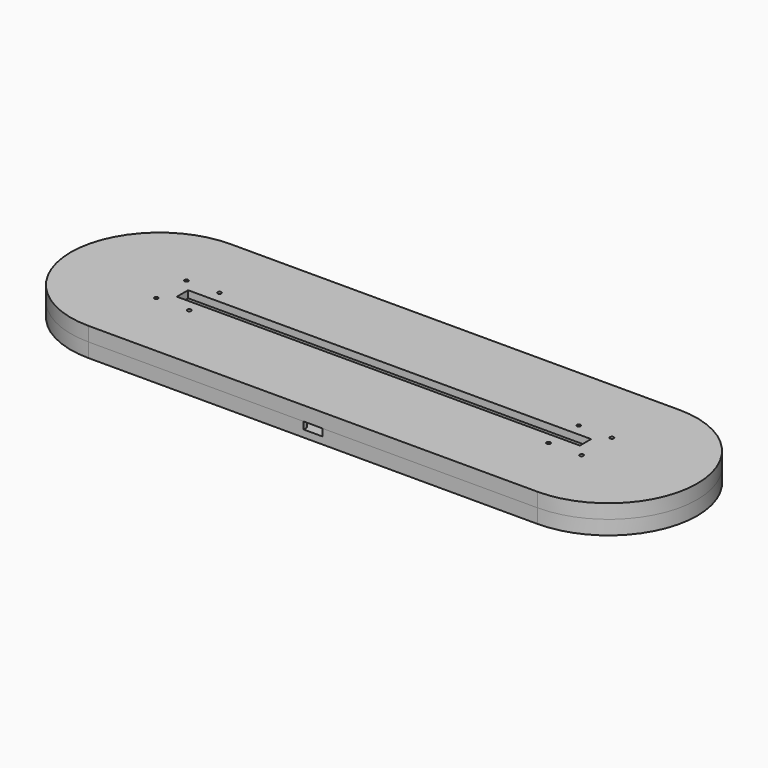
from build123d import *

# Parameters (mm, degrees)
BOX_BOTTOM_HALF_0_W     = 266.988319
BOX_BOTTOM_HALF_0_H     = 77
BOX_BOTTOM_HALF_0_DEPTH = 7
PAD_DEPTH               = 6
POCKET_DEPTH            = 3
SKETCH002_W             = 18.4
SKETCH002_H             = 20.85
POCKET001_DEPTH         = 3
SKETCH003_W             = 8
SKETCH003_H             = 1.65
POCKET002_DEPTH         = 3
PAD001_DEPTH            = 3
SKETCH005_W             = 170.5
SKETCH005_H             = 5.95
PAD002_DEPTH            = 3
SKETCH007_R             = 0.8
POCKET003_DEPTH         = 563.341185
SKETCH008_W             = 4
SKETCH008_H             = 5.84
POCKET004_DEPTH         = 3


with BuildPart() as box_bottom_half_0_body:
    # box_bottom_half_0 → box_bottom_half_0 (new body)
    with BuildSketch(Plane(origin=(-133.49416, -38.5, -1), x_dir=(1, 0, 0), z_dir=(0, 0, 1))):
        with Locations((133.494159, 38.5)):
            Rectangle(BOX_BOTTOM_HALF_0_W, BOX_BOTTOM_HALF_0_H)
    extrude(amount=BOX_BOTTOM_HALF_0_DEPTH)


with BuildPart() as body:
    # Sketch → Pad (new body)
    with BuildSketch(Plane.XY):
        with BuildLine():
            ThreePointArc((-95, 37.5), (-132.5, 0), (-95, -37.5))
            Line((-95, -37.5), (95, -37.5))
            ThreePointArc((95, -37.5), (132.5, 0), (95, 37.5))
            Line((-95, 37.5), (95, 37.5))
        make_face()
    extrude(amount=PAD_DEPTH)

    # Sketch001 (on Face6 of Pad) → Pocket (cut)
    with BuildSketch(Plane.XY.offset(6)):
        with BuildLine():
            ThreePointArc((-87.3, 6), (-93.3, 0), (-87.3, -6))
            Line((-87.3, -6), (87.3, -6))
            ThreePointArc((87.3, -6), (93.3, 0), (87.3, 6))
            Line((-87.3, 6), (87.3, 6))
        make_face()
    extrude(amount=-POCKET_DEPTH, mode=Mode.SUBTRACT)

    # Sketch002 (on Face5 of Pocket) → Pocket001 (cut)
    with BuildSketch(Plane.XY.offset(6)):
        with Locations((0, -25.425)):
            Rectangle(SKETCH002_W, SKETCH002_H)
    extrude(amount=-POCKET001_DEPTH, mode=Mode.SUBTRACT)

    # Sketch003 (on Face5 of Pocket001) → Pocket002 (cut)
    with BuildSketch(Plane.XY.offset(6)):
        with Locations((0, -36.675)):
            Rectangle(SKETCH003_W, SKETCH003_H)
    extrude(amount=-POCKET002_DEPTH, mode=Mode.SUBTRACT)

    # Sketch004 (on Face5 of Pocket002) → Pad001 (join)
    with BuildSketch(Plane.XY.offset(6)):
        with BuildLine():
            ThreePointArc((-95, 37.5), (-132.5, 0), (-95, -37.5))
            Line((-95, -37.5), (95, -37.5))
            ThreePointArc((95, -37.5), (132.5, 0), (95, 37.5))
            Line((-95, 37.5), (95, 37.5))
        make_face()
        with BuildLine():
            ThreePointArc((-87.3, 6), (-93.3, 0), (-87.3, -6))
            Line((-87.3, -6), (87.3, -6))
            ThreePointArc((87.3, -6), (93.3, 0), (87.3, 6))
            Line((-87.3, 6), (87.3, 6))
        make_face(mode=Mode.SUBTRACT)
    extrude(amount=PAD001_DEPTH)

    # Sketch005 (on Face12 of Pad001) → Pad002 (join)
    with BuildSketch(Plane.XY.offset(9)):
        with BuildLine():
            ThreePointArc((-95, 37.5), (-132.5, 0), (-95, -37.5))
            Line((-95, -37.5), (95, -37.5))
            ThreePointArc((95, -37.5), (132.5, 0), (95, 37.5))
            Line((-95, 37.5), (95, 37.5))
        make_face()
        Rectangle(SKETCH005_W, SKETCH005_H, mode=Mode.SUBTRACT)
    extrude(amount=PAD002_DEPTH)

    # Sketch007 (on Face20 of Pad002) → Pocket003 (cut, through all)
    with BuildSketch(Plane.XY.offset(12)):
        with Locations((-90, -8)):
            Circle(SKETCH007_R)
        with Locations((-90, 8)):
            Circle(SKETCH007_R)
        with Locations((-76, 8)):
            Circle(SKETCH007_R)
        with Locations((-76, -8)):
            Circle(SKETCH007_R)
    pocket003 = extrude(amount=-POCKET003_DEPTH, mode=Mode.SUBTRACT)

    # Mirrored: Pocket003 across Sketch007 V_Axis
    add(pocket003.mirror(Plane(origin=(0, 0, 12), x_dir=(0, 0, 1), z_dir=(1, 0, 0))), mode=Mode.SUBTRACT)

    # Sketch008 (on Face5 of Pocket) → Pocket004 (cut)
    with BuildSketch(Plane.XY.offset(6)):
        with Locations((-94.541526, 0)):
            Rectangle(SKETCH008_W, SKETCH008_H)
        with Locations((94.541526, 0)):
            Rectangle(SKETCH008_W, SKETCH008_H)
    extrude(amount=-POCKET004_DEPTH, mode=Mode.SUBTRACT)


with BuildPart() as bottom_half_0_body:
    # bottom_half_0 base: copy of Body
    add(body.part)

    # bottom_half_0: intersect box_bottom_half_0 body
    add(box_bottom_half_0_body.part, mode=Mode.INTERSECT)


with BuildPart() as top_half_0_body:
    # top_half_0 base: copy of Body
    add(body.part)

    # top_half_0: cut box_bottom_half_0 body
    add(box_bottom_half_0_body.part, mode=Mode.SUBTRACT)


solid = Compound([bottom_half_0_body.part, top_half_0_body.part])
